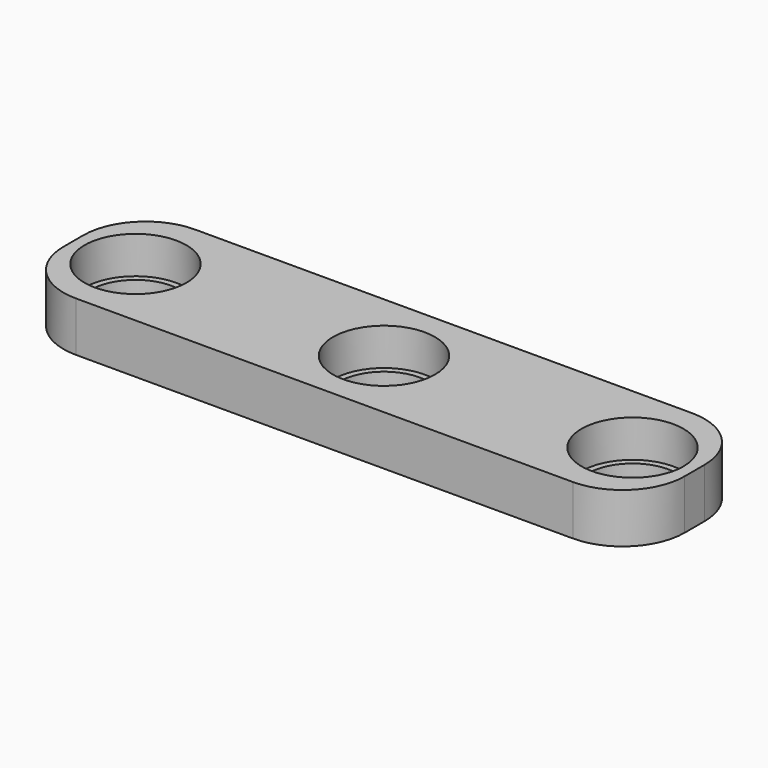
from build123d import *

# Parameters (mm, degrees)
F0_W     = 50
F0_H     = 12
F1_DEPTH = 4
F2_R     = 4.1
F2_R_2   = 3.6
F3_DEPTH = 3
F4_DEPTH = 25
F5_R     = 5


with BuildPart() as f1:
    # F0 (on Top) → F1 (new body)
    with BuildSketch(Plane.XY):
        with Locations((5.119761, 6)):
            Rectangle(F0_W, F0_H)
    extrude(amount=F1_DEPTH)

    # F2 (on face) → F3 (cut)
    with BuildSketch(Plane.XY.offset(4)):
        with Locations((-14.880239, 6)):
            Circle(F2_R)
        with Locations((-14.880239, 6)):
            Circle(F2_R_2, mode=Mode.SUBTRACT)
        with Locations((5.119761, 6)):
            Circle(F2_R)
        with Locations((5.119761, 6)):
            Circle(F2_R_2, mode=Mode.SUBTRACT)
        with Locations((25.119761, 6)):
            Circle(F2_R)
        with Locations((25.119761, 6)):
            Circle(F2_R_2, mode=Mode.SUBTRACT)
    extrude(amount=-F3_DEPTH, mode=Mode.SUBTRACT)

    # F2 (on face) → F4 (cut)
    with BuildSketch(Plane.XY.offset(4)):
        with Locations((-14.880239, 6)):
            Circle(F2_R_2)
        with Locations((5.119761, 6)):
            Circle(F2_R_2)
        with Locations((25.119761, 6)):
            Circle(F2_R_2)
    extrude(amount=-F4_DEPTH, mode=Mode.SUBTRACT)

    # F5
    f5_edges = [f1.edges().sort_by_distance(p)[0] for p in [
        (30.119761, 12, 2),
        (30.119761, 0, 2),
        (-19.880239, 12, 2),
        (-19.880239, 0, 2),
    ]]
    fillet(f5_edges, radius=F5_R)


solid = f1.part
